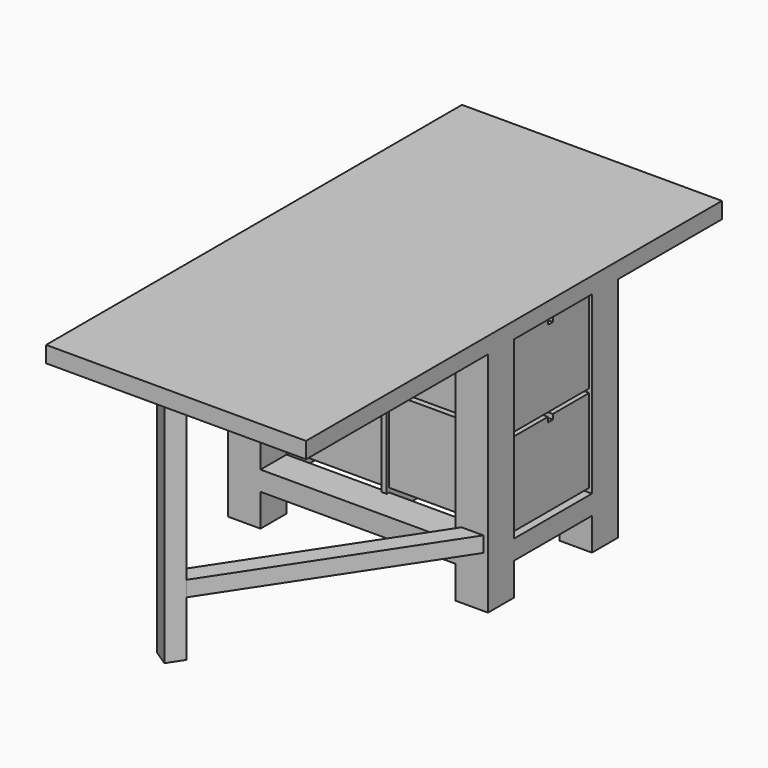
from build123d import *

# Parameters (mm, degrees)
F0_W           = 12.7
F0_H           = 12.7
F0_H_2         = 38.1
F0_W_2         = 76.2
F1_DEPTH       = 7.62
F2_DEPTH       = 12.7
F3_DEPTH       = 76.2
F5_DEPTH       = 6.35
F6_W           = 1.980378
F6_H           = 38.16213
F7_DEPTH       = 76.2
F9_DEPTH       = 47.752
F9_DEPTH_BACK  = 50.292
F10_DEPTH      = 47.752
F10_DEPTH_BACK = 50.292
F11_W          = 1.980378
F11_H          = 68.58
F12_DEPTH      = 1.27
F12_DEPTH_BACK = 39.37
F14_DEPTH      = 90.17
F15_DEPTH      = 90.424
F16_W          = 7.112
F16_H          = 6.043921
F17_DEPTH      = 97.028


with BuildPart() as f1:
    # F0 (on Top) → F1 (new body)
    with BuildSketch(Plane.XY):
        with Locations((-57.942608, 57.15)):
            Rectangle(F0_W, F0_H)
        with Locations((-57.942608, 31.75)):
            Rectangle(F0_W, F0_H_2)
        with Locations((-57.942608, 6.35)):
            Rectangle(F0_W, F0_H)
        with Locations((-13.492608, 6.35)):
            Rectangle(F0_W_2, F0_H)
        with Locations((30.957392, 6.35)):
            Rectangle(F0_W, F0_H)
        with Locations((30.957392, 31.75)):
            Rectangle(F0_W, F0_H_2)
        with Locations((30.957392, 57.15)):
            Rectangle(F0_W, F0_H)
        with Locations((-13.492608, 57.15)):
            Rectangle(F0_W_2, F0_H)
    extrude(amount=F1_DEPTH)

    # F0 (on Top) → F2 (join)
    with BuildSketch(Plane.XY):
        with Locations((-57.942608, 6.35)):
            Rectangle(F0_W, F0_H)
        with Locations((-57.942608, 57.15)):
            Rectangle(F0_W, F0_H)
        with Locations((30.957392, 57.15)):
            Rectangle(F0_W, F0_H)
        with Locations((30.957392, 6.35)):
            Rectangle(F0_W, F0_H)
    extrude(amount=-F2_DEPTH)

    # F0 (on Top) → F3 (join)
    with BuildSketch(Plane.XY):
        with Locations((30.957392, 6.35)):
            Rectangle(F0_W, F0_H)
        with Locations((30.957392, 57.15)):
            Rectangle(F0_W, F0_H)
        with Locations((-57.942608, 57.15)):
            Rectangle(F0_W, F0_H)
        with Locations((-57.942608, 6.35)):
            Rectangle(F0_W, F0_H)
    extrude(amount=F3_DEPTH)

    # F4 (on face) → F5 (join)
    with BuildSketch(Plane.XY.offset(76.2)):
        Polygon((-64.292608, 63.5), (-64.292608, -88.9), (37.307392, -88.9), (37.307392, 63.5), (37.307392, 114.3), (-64.292608, 114.3), align=None)
    extrude(amount=F5_DEPTH)

    # F6 (on face) → F7 (join)
    with BuildSketch(Plane(origin=(0, 0, 76.2), x_dir=(1, 0, 0), z_dir=(0, 0, -1))):
        with Locations((-12.502419, -31.781065)):
            Rectangle(F6_W, F6_H)
    extrude(amount=F7_DEPTH)

    # F8 (on face) → F9 (join, two sides)
    with BuildSketch(Plane.YZ.offset(-11.51223)) as f9_sk:
        Polygon((30.57342, 41.91), (12.7, 41.91), (12.7, 9.275453), (50.86213, 9.275453), (50.86213, 41.91), (33.018019, 41.91), (33.018019, 39.962422), (30.57342, 39.962422), align=None)
    extrude(amount=F9_DEPTH)
    extrude(f9_sk.sketch, amount=-F9_DEPTH_BACK)

    # F8 (on face) → F10 (join, two sides)
    with BuildSketch(Plane.YZ.offset(-11.51223)) as f10_sk:
        Polygon((30.57342, 75.306833), (12.7, 75.306833), (12.7, 43.47302), (50.86213, 43.47302), (50.86213, 75.306833), (33.018019, 75.306833), (33.018019, 73.520184), (30.57342, 73.520184), align=None)
    extrude(amount=F10_DEPTH)
    extrude(f10_sk.sketch, amount=-F10_DEPTH_BACK)

    # F11 (on face) → F12 (join, two sides)
    with BuildSketch(Plane(origin=(0, 50.86213, 0), x_dir=(-1, 0, 0), z_dir=(0, 1, 0))) as f12_sk:
        with Locations((12.502419, 41.91)):
            Rectangle(F11_W, F11_H)
    extrude(amount=F12_DEPTH)
    extrude(f12_sk.sketch, amount=-F12_DEPTH_BACK)

    # F13 (on face) → F14 (join)
    with BuildSketch(Plane(origin=(0, 0, 76.2), x_dir=(1, 0, 0), z_dir=(0, 0, -1))):
        Polygon((-16.877052, 79.53029), (-20.790081, 85.46904), (-26.72883, 81.556011), (-22.815801, 75.617261), align=None)
    extrude(amount=F14_DEPTH)

    # F13 (on face) → F15 (join)
    with BuildSketch(Plane(origin=(0, 0, 76.2), x_dir=(1, 0, 0), z_dir=(0, 0, -1))):
        Polygon((-16.877052, 79.53029), (-20.790081, 85.46904), (-26.72883, 81.556011), (-22.815801, 75.617261), align=None)
    extrude(amount=F15_DEPTH)

    # F16 (on face) → F17 (join)
    with BuildSketch(Plane(origin=(-41.648083, -63.208712, 0), x_dir=(-0.835032, 0.550201, 0), z_dir=(0.550201, 0.835032, 0))):
        with Locations((-26.108759, 10.307214)):
            Rectangle(F16_W, F16_H)
    extrude(amount=F17_DEPTH)


solid = f1.part
